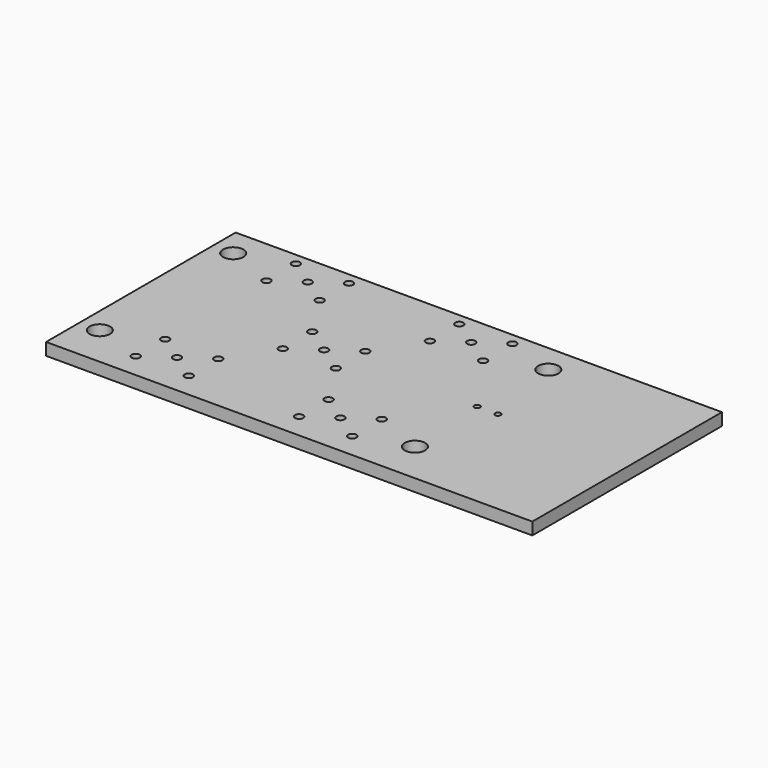
from build123d import *

# Parameters (mm, degrees)
F0_W     = 59.5
F0_H     = 29
F0_R     = 0.5
F0_R_2   = 1.25
F0_R_3   = 0.35
F1_DEPTH = 1.5
F2_R     = 0.5
F3_DEPTH = 2


with BuildPart() as f1:
    # F0 (on Top) → F1 (new body)
    with BuildSketch(Plane.XY):
        with Locations((29.75, -14.5)):
            Rectangle(F0_W, F0_H)
        with Locations((8.528429, -25.95)):
            Circle(F0_R, mode=Mode.SUBTRACT)
        with Locations((2.5, -23.9)):
            Circle(F0_R_2, mode=Mode.SUBTRACT)
        with Locations((11.778429, -23.7)):
            Circle(F0_R, mode=Mode.SUBTRACT)
        with Locations((15.028429, -25.95)):
            Circle(F0_R, mode=Mode.SUBTRACT)
        with Locations((28.528429, -25.95)):
            Circle(F0_R, mode=Mode.SUBTRACT)
        with Locations((8.528429, -21.45)):
            Circle(F0_R, mode=Mode.SUBTRACT)
        with Locations((15.028429, -21.45)):
            Circle(F0_R, mode=Mode.SUBTRACT)
        with Locations((28.528429, -21.45)):
            Circle(F0_R, mode=Mode.SUBTRACT)
        with Locations((18.528429, -15.95)):
            Circle(F0_R, mode=Mode.SUBTRACT)
        with Locations((25.028429, -15.95)):
            Circle(F0_R, mode=Mode.SUBTRACT)
        with Locations((35.028429, -25.95)):
            Circle(F0_R, mode=Mode.SUBTRACT)
        with Locations((31.778429, -23.7)):
            Circle(F0_R, mode=Mode.SUBTRACT)
        with Locations((41.056858, -23.9)):
            Circle(F0_R_2, mode=Mode.SUBTRACT)
        with Locations((35.028429, -21.45)):
            Circle(F0_R, mode=Mode.SUBTRACT)
        with Locations((18.528429, -11.45)):
            Circle(F0_R, mode=Mode.SUBTRACT)
        with Locations((25.028429, -11.45)):
            Circle(F0_R, mode=Mode.SUBTRACT)
        with Locations((8.528429, -5.95)):
            Circle(F0_R, mode=Mode.SUBTRACT)
        with Locations((11.778429, -3.7)):
            Circle(F0_R, mode=Mode.SUBTRACT)
        with Locations((2.5, -3.5)):
            Circle(F0_R_2, mode=Mode.SUBTRACT)
        with Locations((8.528429, -1.45)):
            Circle(F0_R, mode=Mode.SUBTRACT)
        with Locations((15.028429, -5.95)):
            Circle(F0_R, mode=Mode.SUBTRACT)
        with Locations((28.528429, -5.95)):
            Circle(F0_R, mode=Mode.SUBTRACT)
        with Locations((15.028429, -1.45)):
            Circle(F0_R, mode=Mode.SUBTRACT)
        with Locations((28.528429, -1.45)):
            Circle(F0_R, mode=Mode.SUBTRACT)
        with Locations((40.508429, -13.7)):
            Circle(F0_R_3, mode=Mode.SUBTRACT)
        with Locations((43.048429, -13.7)):
            Circle(F0_R_3, mode=Mode.SUBTRACT)
        with Locations((35.028429, -5.95)):
            Circle(F0_R, mode=Mode.SUBTRACT)
        with Locations((31.778429, -3.7)):
            Circle(F0_R, mode=Mode.SUBTRACT)
        with Locations((35.028429, -1.45)):
            Circle(F0_R, mode=Mode.SUBTRACT)
        with Locations((41.056858, -3.5)):
            Circle(F0_R_2, mode=Mode.SUBTRACT)
    extrude(amount=F1_DEPTH)

    # F2 (on face) → F3 (cut)
    with BuildSketch(Plane.XY.offset(1.5)):
        with Locations((21.778429, -13.7)):
            Circle(F2_R)
    extrude(amount=-F3_DEPTH, mode=Mode.SUBTRACT)


solid = f1.part
